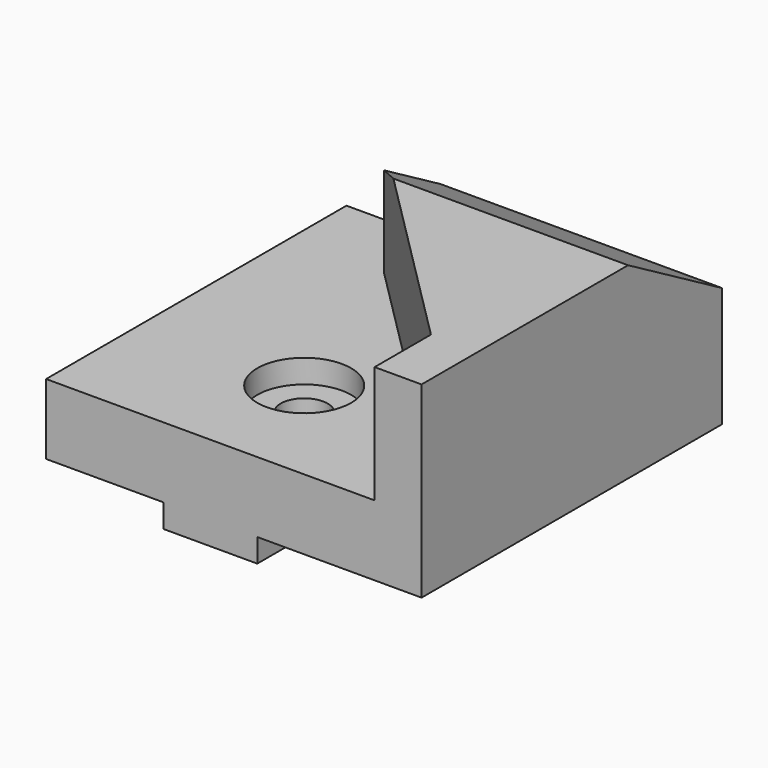
from build123d import *

# Parameters (mm, degrees)
F1_DEPTH       = 40
F3_DEPTH       = 25
F5_DEPTH       = 60
F7_D           = 10
F7_CBORE_D     = 20
F7_CBORE_DEPTH = 5


with BuildPart() as f1:
    # F0 (on Front) → F1 (new body, symmetric)
    with BuildSketch(Plane.XZ):
        Polygon((40, 25), (30, 25), (30, 0), (-40, 0), (-40, -15), (-15, -15), (-15, -20), (5, -20), (5, -15), (40, -15), align=None)
    extrude(amount=F1_DEPTH, both=True)

    # F2 (on face) → F3 (join, through all)
    with BuildSketch(Plane.XY):
        Polygon((30, -25), (30, 40), (-20, 40), (-20, 25), align=None)
    extrude(amount=F3_DEPTH)

    # F4 (on face) → F5 (cut, through all)
    with BuildSketch(Plane.YZ.offset(40)):
        Polygon((40, 25), (15, 25), (40, 10.566243), align=None)
    extrude(amount=-F5_DEPTH, mode=Mode.SUBTRACT)

    # F7 (through all)
    with Locations(Plane.XY):
        with Locations((-5, -15)):
            CounterBoreHole(F7_D / 2, F7_CBORE_D / 2, F7_CBORE_DEPTH)


solid = f1.part
